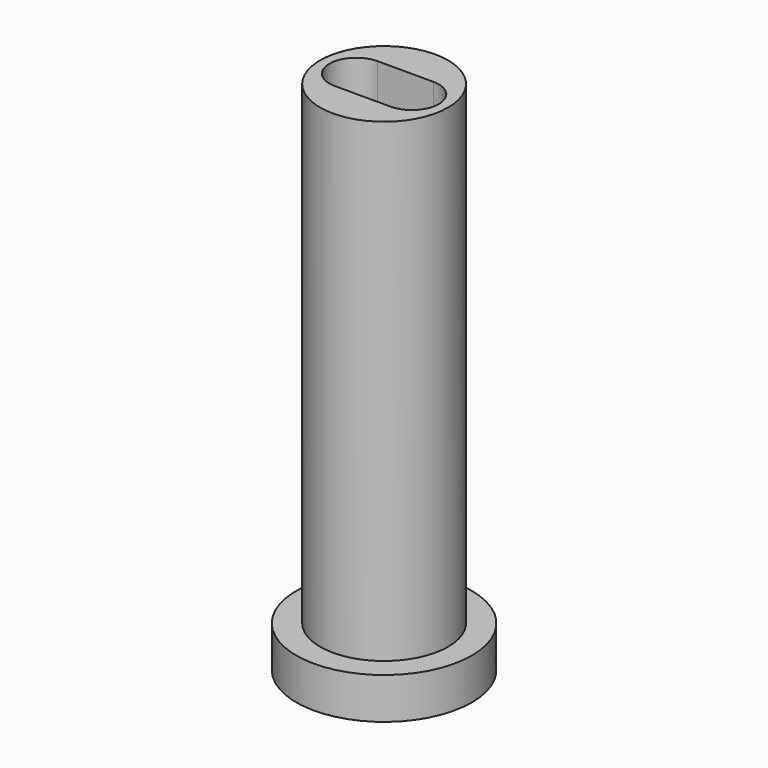
from build123d import *

# Parameters (mm, degrees)
F0_R     = 4.25
F0_R_2   = 3.1
F1_DEPTH = 2
F2_DEPTH = 25


with BuildPart() as f1:
    # F0 (on Top) → F1 (new body)
    with BuildSketch(Plane.XY):
        Circle(F0_R)
        Circle(F0_R_2, mode=Mode.SUBTRACT)
    extrude(amount=F1_DEPTH)

    # F0 (on Top) → F2 (join)
    with BuildSketch(Plane.XY):
        Circle(F0_R_2)
        with BuildLine():
            Line((-1.35, 1.3), (1.35, 1.3))
            ThreePointArc((1.35, 1.3), (2.65, 0), (1.35, -1.3))
            Line((1.35, -1.3), (-1.35, -1.3))
            ThreePointArc((-1.35, -1.3), (-2.65, 0), (-1.35, 1.3))
        make_face(mode=Mode.SUBTRACT)
    extrude(amount=F2_DEPTH)


solid = f1.part
